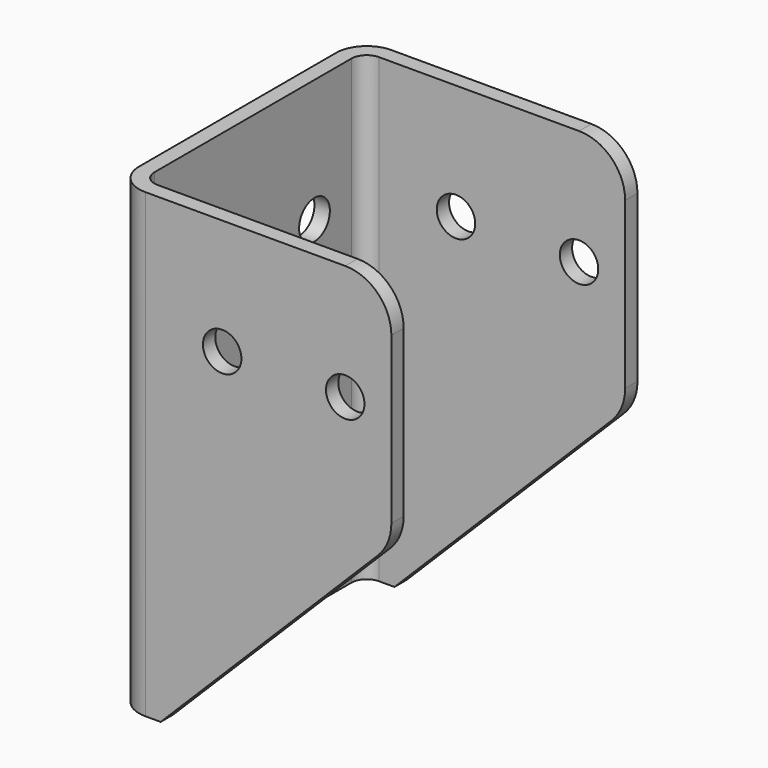
from build123d import *

# Parameters (mm, degrees)
F1_DEPTH = 150
F2_R     = 6.25
F3_DEPTH = 100.001
F4_R     = 6.25
F5_DEPTH = 90.001
F6_R     = 15


with BuildPart() as f1:
    # F0 (on Top) → F1 (new body)
    with BuildSketch(Plane.XY):
        with BuildLine():
            ThreePointArc((50, 40), (47.0710678119, 47.0710678119), (40, 50))
            Line((40, 50), (-40, 50))
            ThreePointArc((-40, 50), (-47.0710678119, 47.0710678119), (-50, 40))
            Line((-50, 40), (-50, -40))
            ThreePointArc((-50, -40), (-47.0710678119, -47.0710678119), (-40, -50))
            Line((-40, -50), (40, -50))
            ThreePointArc((40, -50), (47.0710678119, -47.0710678119), (50, -40))
            Line((50, -40), (50, 40))
        make_face()
        with BuildLine():
            ThreePointArc((40, 45.0000017881), (43.5355351703, 43.5355351703), (45.0000017881, 40))
            Line((45.0000017881, 40), (45.0000017881, -40))
            ThreePointArc((45.0000017881, -40), (43.5355351703, -43.5355351703), (40, -45.0000017881))
            Line((40, -45.0000017881), (-40, -45.0000017881))
            ThreePointArc((-40, -45.0000017881), (-43.5355351703, -43.5355351703), (-45.0000017881, -40))
            Line((-45.0000017881, -40), (-45.0000017881, 40))
            ThreePointArc((-45.0000017881, 40), (-43.5355351703, 43.5355351703), (-40, 45.0000017881))
            Line((-40, 45.0000017881), (40, 45.0000017881))
        make_face(mode=Mode.SUBTRACT)
    extrude(amount=F1_DEPTH)

    # F2 (on face) → F3 (cut, through all)
    with BuildSketch(Plane.XZ.offset(50)):
        Polygon((50, 150), (40, 150), (40, 75), (-35, 0), (50, 0), align=None)
        with Locations((-15, 112.5)):
            Circle(F2_R)
        with Locations((25, 112.5)):
            Circle(F2_R)
    extrude(amount=-F3_DEPTH, mode=Mode.SUBTRACT)

    # F4 (on face) → F5 (cut, through all)
    with BuildSketch(Plane(origin=(-50, 0, 0), x_dir=(0, -1, 0), z_dir=(-1, 0, 0))):
        with Locations((-25, 110)):
            Circle(F4_R)
        with Locations((-25, 35)):
            Circle(F4_R)
        with Locations((25, 35)):
            Circle(F4_R)
        with Locations((25, 110)):
            Circle(F4_R)
    extrude(amount=-F5_DEPTH, mode=Mode.SUBTRACT)

    # F6
    f6_edges = [f1.edges().sort_by_distance(p)[0] for p in [
        (40, -47.500001, 75),
        (40, -47.500001, 150),
        (40, 47.500001, 150),
        (40, 47.500001, 75),
    ]]
    fillet(f6_edges, radius=F6_R)


solid = f1.part
